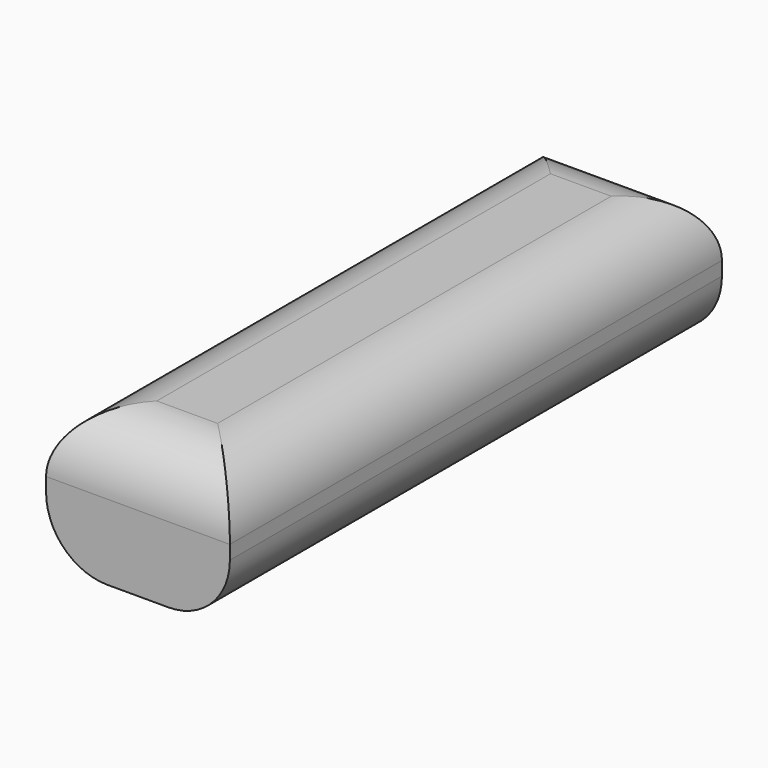
from build123d import *

# Parameters (mm, degrees)
F0_W     = 75.895198
F0_H     = 56.5404
F1_DEPTH = 254
F2_R     = 25.4


with BuildPart() as f1:
    # F0 (on Front) → F1 (new body)
    with BuildSketch(Plane.XZ):
        with Locations((-37.947599, 28.2702)):
            Rectangle(F0_W, F0_H)
    extrude(amount=F1_DEPTH)

    # F2
    f2_edges = [f1.edges().sort_by_distance(p)[0] for p in [
        (0, -127, 56.5404),
        (0, -127, 0),
        (-75.895198, -127, 56.5404),
        (-37.947599, 0, 56.5404),
        (-37.947599, -254, 56.5404),
        (-75.895198, -127, 0),
    ]]
    fillet(f2_edges, radius=F2_R)


solid = f1.part
